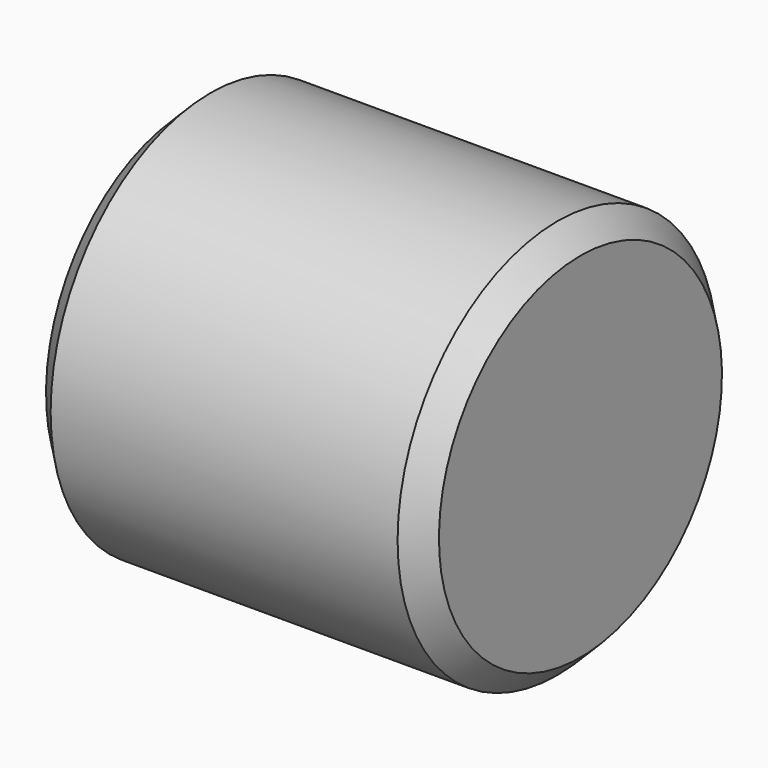
from build123d import *

# Parameters (mm, degrees)
F2_SIZE = 5
F3_SIZE = 5
F4_SIZE = 5


with BuildPart() as f1:
    # F0 (on Front) → F1 (revolve)
    with BuildSketch(Plane.XZ):
        Polygon((34.920584, 43.482468), (-50.5643, 43.482468), (-50.5643, 17.559418), (0, 0), (34.920584, 0), (34.920584, 17.559418), align=None)
    revolve(axis=Axis((17.460292, 0, 0), (-1, 0, 0)))

    # F2
    f2_edges = [f1.edges().sort_by_distance(p)[0] for p in [
        (-50.5643, 0, -43.482468),
    ]]
    chamfer(f2_edges, length=F2_SIZE)

    # F3
    f3_edges = [f1.edges().sort_by_distance(p)[0] for p in [
        (-50.5643, 0, -17.559418),
    ]]
    chamfer(f3_edges, length=F3_SIZE)

    # F4
    f4_edges = [f1.edges().sort_by_distance(p)[0] for p in [
        (34.920584, 0, -43.482468),
    ]]
    chamfer(f4_edges, length=F4_SIZE)


solid = f1.part
